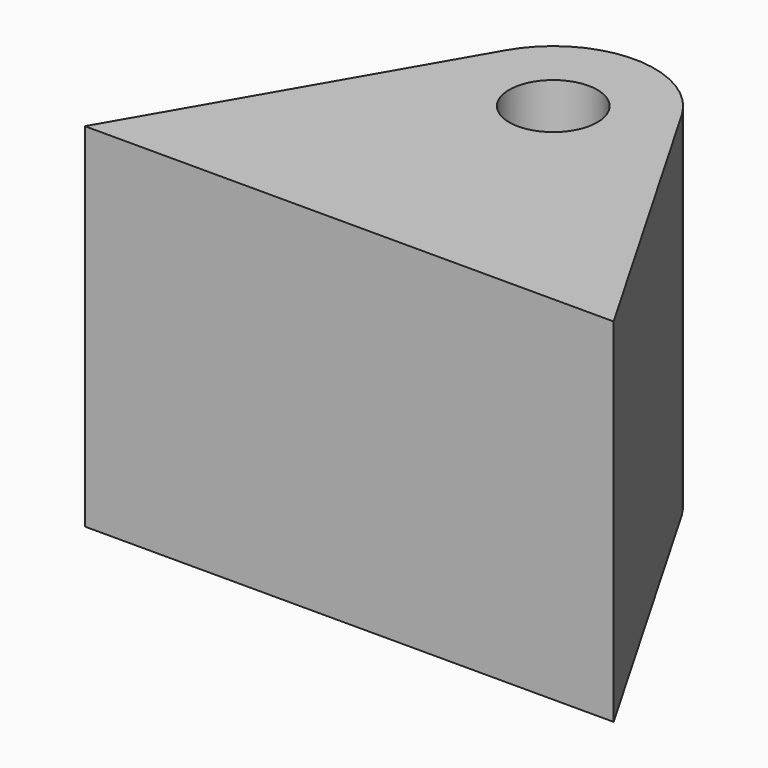
from build123d import *

# Parameters (mm, degrees)
F0_R     = 6.35
F1_DEPTH = 25.4


with BuildPart() as f1:
    # F0 (on Top) → F1 (new body, symmetric)
    with BuildSketch(Plane.XY):
        with BuildLine():
            Line((-12.661204, 44.061287), (-38.1, 0))
            Line((-38.1, 0), (38.1, 0))
            Line((38.1, 0), (12.661204, 44.061287))
            ThreePointArc((12.661204, 44.061287), (0, 51.371237), (-12.661204, 44.061287))
        make_face()
        with Locations((0, 36.751337)):
            Circle(F0_R, mode=Mode.SUBTRACT)
    extrude(amount=F1_DEPTH, both=True)


solid = f1.part
